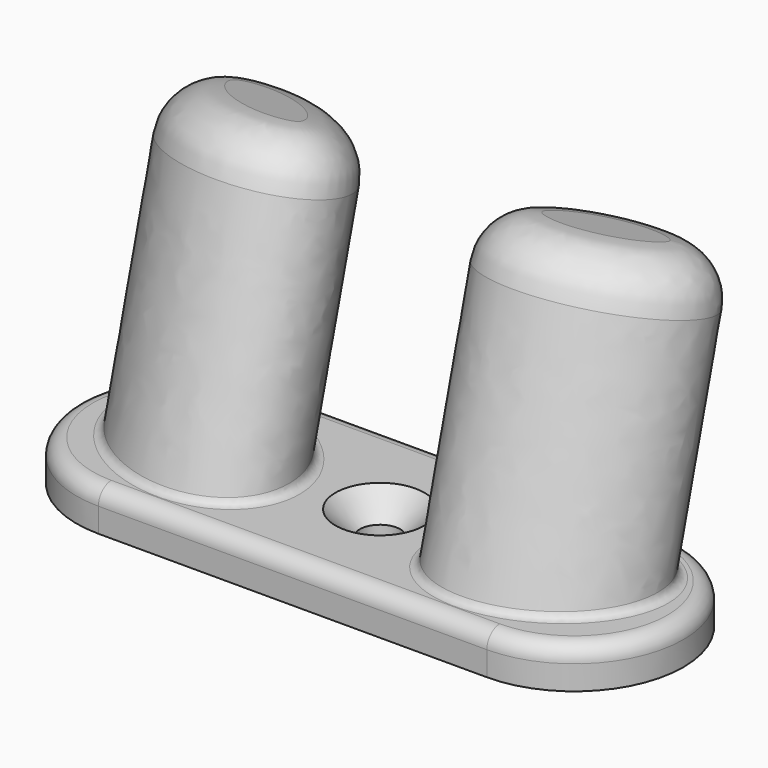
from build123d import *

# Parameters (mm, degrees)
PAD_DEPTH    = 5
PAD001_DEPTH = 40
SKETCH002_R  = 2.5
POCKET_DEPTH = 41.624805
BOX_W        = 200
BOX_H        = 200
BOX_DEPTH    = 20
FILLET_R     = 6
FILLET001_R  = 2
FILLET002_R  = 1
CHAMFER_SIZE = 3


with BuildPart() as part:
    # Sketch → Pad (new body)
    with BuildSketch(Plane.XY):
        with BuildLine():
            ThreePointArc((-24, 13.5), (-37.5, 0), (-24, -13.5))
            Line((-24, -13.5), (24, -13.5))
            ThreePointArc((24, -13.5), (37.5, 0), (24, 13.5))
            Line((24, 13.5), (-24, 13.5))
        make_face()
    extrude(amount=PAD_DEPTH)

    # Sketch001 → Pad001 (join)
    with BuildSketch(Plane(origin=(0, 0, 0), x_dir=(1, 0, 0), z_dir=(0, 0.258819, 0.965926))):
        with BuildLine():
            add(Edge.make_bspline(
                [(-32.429672, 3.194848), (-38.761166, -11.439963), (-18.450912, -11.539829), (1.859343, -11.639695), (-12.119417, 3.094981), (-26.098177, 17.829658), (-32.429672, 3.194848)],
                knots=[0, 0, 0, 2.094395, 2.094395, 4.18879, 4.18879, 6.283185, 6.283185, 6.283185], degree=2, weights=[1, 0.5, 1, 0.5, 1, 0.5, 1]))
        make_face()
    pad001 = extrude(amount=PAD001_DEPTH)

    # Sketch002 → Pocket (cut, through all)
    with BuildSketch(Plane.XY):
        Circle(SKETCH002_R)
    extrude(amount=POCKET_DEPTH, mode=Mode.SUBTRACT)

    # Mirrored: Pad001 across Sketch001 V_Axis
    add(pad001.mirror(Plane(origin=(0, 0, 0), x_dir=(0, 0.258819, 0.965926), z_dir=(1, 0, 0))))

    # Box → Box (cut)
    with BuildSketch(Plane(origin=(100, -100, 0), x_dir=(-1, 0, 0), z_dir=(0, 0, -1))):
        with Locations((100, 100)):
            Rectangle(BOX_W, BOX_H)
    extrude(amount=BOX_DEPTH, mode=Mode.SUBTRACT)

    # Fillet
    fillet_edges = [part.edges().sort_by_distance(p)[0] for p in [
        (9.568832, 3.889378, 40.368891),
        (-9.568832, 3.889378, 40.368891),
    ]]
    fillet(fillet_edges, radius=FILLET_R)

    # Fillet001
    fillet001_edges = [part.edges().sort_by_distance(p)[0] for p in [
        (0, 13.5, 5),
        (37.5, 0, 5),
        (0, -13.5, 5),
        (-37.5, 0, 5),
    ]]
    fillet(fillet001_edges, radius=FILLET001_R)

    # Fillet002
    fillet002_edges = [part.edges().sort_by_distance(p)[0] for p in [
        (-9.570328, -5.59127, 5),
        (9.570328, -5.59127, 5),
    ]]
    fillet(fillet002_edges, radius=FILLET002_R)

    # Chamfer
    chamfer_edges = [part.edges().sort_by_distance(p)[0] for p in [
        (-2.5, 0, 5),
    ]]
    chamfer(chamfer_edges, length=CHAMFER_SIZE)


solid = part.part
